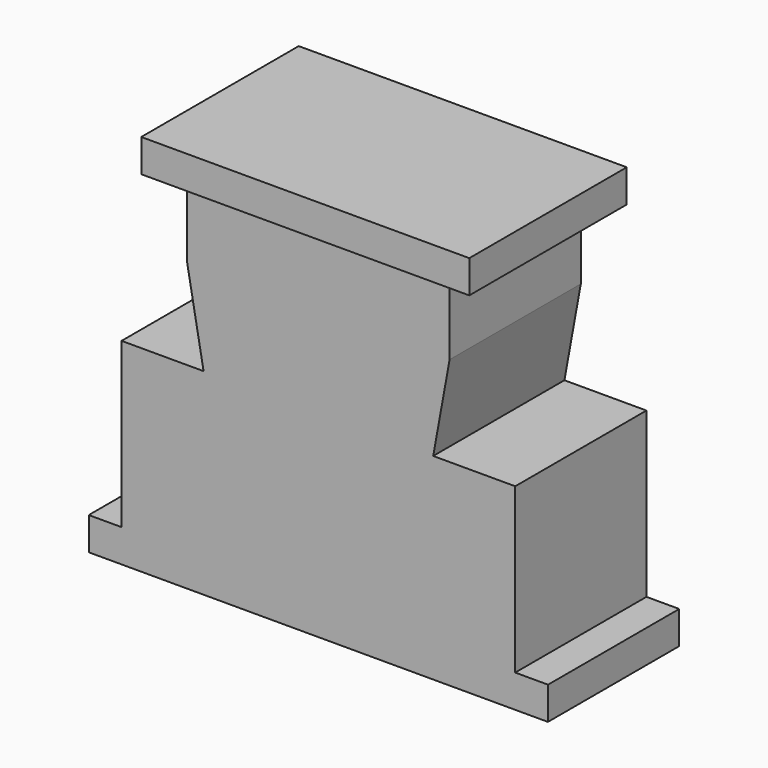
from build123d import *

# Parameters (mm, degrees)
F0_W     = 10.16
F0_H     = 5.7193874504
F1_DEPTH = 6.35
F2_DEPTH = 7.62


with BuildPart() as f1:
    # F0 (on Front) → F1 (new body, symmetric)
    with BuildSketch(Plane.XZ):
        Polygon((0, 16.9185199898), (0, 19.4585199898), (-25.4, 19.4585199898), (-25.4, 16.9185199898), (-22.86, 16.9185199898), (-12.7, 16.9185199898), (-2.54, 16.9185199898), align=None)
        with Locations((-7.62, 14.0588262645)):
            Rectangle(F0_W, F0_H)
        with Locations((-17.78, 14.0588262645)):
            Rectangle(F0_W, F0_H)
        Polygon((-3.81, 4.2185199898), (-2.54, 11.1991325393), (-12.7, 11.1991325393), (-12.7, 4.2185199898), align=None)
        Polygon((-12.7, 11.1991325393), (-22.86, 11.1991325393), (-21.59, 4.2185199898), (-12.7, 4.2185199898), align=None)
        Polygon((2.54, 4.2185199898), (-3.81, 4.2185199898), (-12.7, 4.2185199898), (-12.7, -8.4814800102), (2.54, -8.4814800102), align=None)
        Polygon((-12.7, 4.2185199898), (-21.59, 4.2185199898), (-27.94, 4.2185199898), (-27.94, -8.4814800102), (-12.7, -8.4814800102), align=None)
        Polygon((2.54, -8.4814800102), (-12.7, -8.4814800102), (-27.94, -8.4814800102), (-30.48, -8.4814800102), (-30.48, -11.0214800102), (5.0727012567, -11.0214800102), (5.08, -8.4814800102), align=None)
    extrude(amount=F1_DEPTH, both=True)

    # F0 (on Front) → F2 (join, symmetric)
    with BuildSketch(Plane.XZ):
        Polygon((0, 16.9185199898), (0, 19.4585199898), (-25.4, 19.4585199898), (-25.4, 16.9185199898), (-22.86, 16.9185199898), (-12.7, 16.9185199898), (-2.54, 16.9185199898), align=None)
    extrude(amount=F2_DEPTH, both=True)


solid = f1.part
